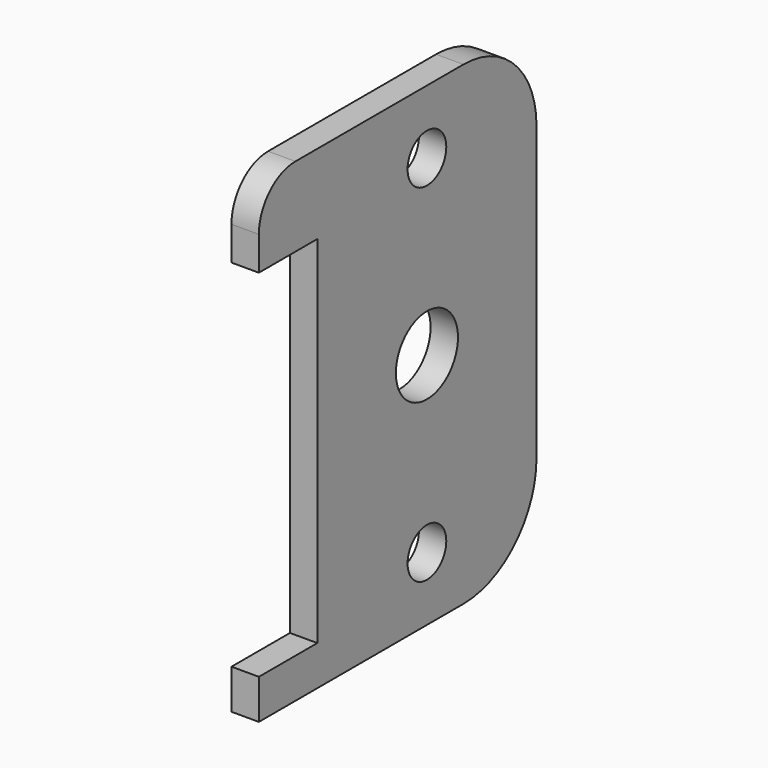
from build123d import *

# Parameters (mm, degrees)
F0_R     = 2.65
F0_R_2   = 4.25
F1_DEPTH = 3


with BuildPart() as f1:
    # F0 (on Right) → F1 (new body)
    with BuildSketch(Plane.YZ):
        with BuildLine():
            ThreePointArc((-14, 26), (-17.535534, 24.535534), (-19, 21))
            Line((-19, 21), (-19, 17.3))
            Line((-19, 17.3), (-11, 17.3))
            Line((-11, 17.3), (-11, -21.65))
            Line((-11, -21.65), (-19, -21.65))
            Line((-19, -21.65), (-19, -26))
            Line((-19, -26), (9, -26))
            ThreePointArc((9, -26), (16.071068, -23.071068), (19, -16))
            Line((19, -16), (19, 16))
            ThreePointArc((19, 16), (16.071068, 23.071068), (9, 26))
            Line((9, 26), (-14, 26))
        make_face()
        with Locations((4, -19)):
            Circle(F0_R, mode=Mode.SUBTRACT)
        with Locations((4, 0)):
            Circle(F0_R_2, mode=Mode.SUBTRACT)
        with Locations((4, 19)):
            Circle(F0_R, mode=Mode.SUBTRACT)
    extrude(amount=F1_DEPTH)


solid = f1.part
